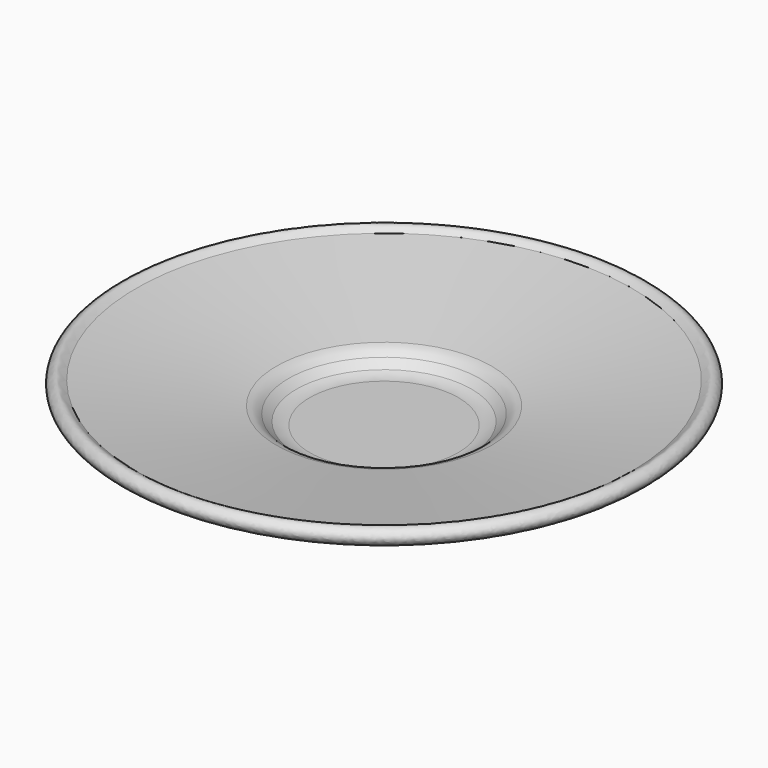
from build123d import *


with BuildPart() as f1:
    # F0 (on Front) → F1 (revolve)
    with BuildSketch(Plane.XZ):
        with BuildLine():
            Line((-38.237880871, -2.1265557187), (-38.2356084883, -8.5030477494))
            Line((-38.2356084883, -8.5030477494), (-15.5100039694, -8.4863959963))
            add(Edge.make_bspline(
                [(-15.5100039694, -8.4863959963), (-13.4204085473, -8.4863959963), (-11.1421066824, -7.686874076), (-9.5550827238, -6.7930331605)],
                knots=[0, 0, 0, 0, 6.1910067626, 6.1910067626, 6.1910067626, 6.1910067626], degree=3))
            Line((-9.5550827238, -6.7930331605), (-6.9830119166, -4.6222764684))
            add(Edge.make_bspline(
                [(-6.9830119166, -4.6222764684), (-5.6083946976, -3.4518540522), (-4.5827813003, -2.9501531424), (-3.2069868896, -2.7616278419)],
                knots=[0, 0, 0, 0, 4.2095579716, 4.2095579716, 4.2095579716, 4.2095579716], degree=3))
            Line((-3.2069868896, -2.7616278419), (38.6096351292, 5.8562566375))
            add(Edge.make_bspline(
                [(38.6096351292, 5.8562566375), (43.9138748195, 8.1771944499), (40.8261068201, 11.2998985534), (39.1594879773, 11.2998985534)],
                knots=[0, 0, 0, 0, 5.4713412856, 5.4713412856, 5.4713412856, 5.4713412856], degree=3))
            add(Edge.make_bspline(
                [(39.1594879773, 11.2998985534), (38.0623229292, 11.2998985534), (37.6965962794, 10.5403211748), (36.7119648006, 9.9776719546)],
                knots=[0, 0, 0, 0, 2.7818434318, 2.7818434318, 2.7818434318, 2.7818434318], degree=3))
            Line((36.7119648006, 9.9776719546), (-5.7235136184, 3.0329634284))
            add(Edge.make_bspline(
                [(-5.7235136184, 3.0329634284), (-7.4849295917, 2.7719314059), (-8.3823259476, 1.9115756115), (-9.3416720185, 0.9151880478)],
                knots=[0, 0, 0, 0, 4.1923791301, 4.1923791301, 4.1923791301, 4.1923791301], degree=3))
            Line((-9.3416720185, 0.9151880478), (-11.7610655281, -1.138483003))
            add(Edge.make_bspline(
                [(-11.7610655281, -1.138483003), (-12.479305223, -1.4824316057), (-13.7866027209, -2.1793845261), (-15.7329774949, -2.1265557187)],
                knots=[0, 0, 0, 0, 4.092966206, 4.092966206, 4.092966206, 4.092966206], degree=3))
            Line((-15.7329774949, -2.1265557187), (-38.237880871, -2.1265557187))
        make_face()
    revolve(axis=Axis((-38.2367446797, 0, -5.314801734), (0.0003563688, 0, -0.9999999365)))


with BuildPart() as f2:
    # F0 (on Front) → F2 (revolve)
    with BuildSketch(Plane.XZ):
        with BuildLine():
            Line((-38.237880871, -2.1265557187), (-38.2356084883, -8.5030477494))
            Line((-38.2356084883, -8.5030477494), (-15.5100039694, -8.4863959963))
            add(Edge.make_bspline(
                [(-15.5100039694, -8.4863959963), (-13.4204085473, -8.4863959963), (-11.1421066824, -7.686874076), (-9.5550827238, -6.7930331605)],
                knots=[0, 0, 0, 0, 6.1910067626, 6.1910067626, 6.1910067626, 6.1910067626], degree=3))
            Line((-9.5550827238, -6.7930331605), (-6.9830119166, -4.6222764684))
            add(Edge.make_bspline(
                [(-6.9830119166, -4.6222764684), (-5.6083946976, -3.4518540522), (-4.5827813003, -2.9501531424), (-3.2069868896, -2.7616278419)],
                knots=[0, 0, 0, 0, 4.2095579716, 4.2095579716, 4.2095579716, 4.2095579716], degree=3))
            Line((-3.2069868896, -2.7616278419), (38.6096351292, 5.8562566375))
            add(Edge.make_bspline(
                [(38.6096351292, 5.8562566375), (43.9138748195, 8.1771944499), (40.8261068201, 11.2998985534), (39.1594879773, 11.2998985534)],
                knots=[0, 0, 0, 0, 5.4713412856, 5.4713412856, 5.4713412856, 5.4713412856], degree=3))
            add(Edge.make_bspline(
                [(39.1594879773, 11.2998985534), (38.0623229292, 11.2998985534), (37.6965962794, 10.5403211748), (36.7119648006, 9.9776719546)],
                knots=[0, 0, 0, 0, 2.7818434318, 2.7818434318, 2.7818434318, 2.7818434318], degree=3))
            Line((36.7119648006, 9.9776719546), (-5.7235136184, 3.0329634284))
            add(Edge.make_bspline(
                [(-5.7235136184, 3.0329634284), (-7.4849295917, 2.7719314059), (-8.3823259476, 1.9115756115), (-9.3416720185, 0.9151880478)],
                knots=[0, 0, 0, 0, 4.1923791301, 4.1923791301, 4.1923791301, 4.1923791301], degree=3))
            Line((-9.3416720185, 0.9151880478), (-11.7610655281, -1.138483003))
            add(Edge.make_bspline(
                [(-11.7610655281, -1.138483003), (-12.479305223, -1.4824316057), (-13.7866027209, -2.1793845261), (-15.7329774949, -2.1265557187)],
                knots=[0, 0, 0, 0, 4.092966206, 4.092966206, 4.092966206, 4.092966206], degree=3))
            Line((-15.7329774949, -2.1265557187), (-38.237880871, -2.1265557187))
        make_face()
    revolve(axis=Axis((-38.2367446797, 0, -5.314801734), (0.0003563688, 0, -0.9999999365)))


solid = Compound([f1.part, f2.part])
